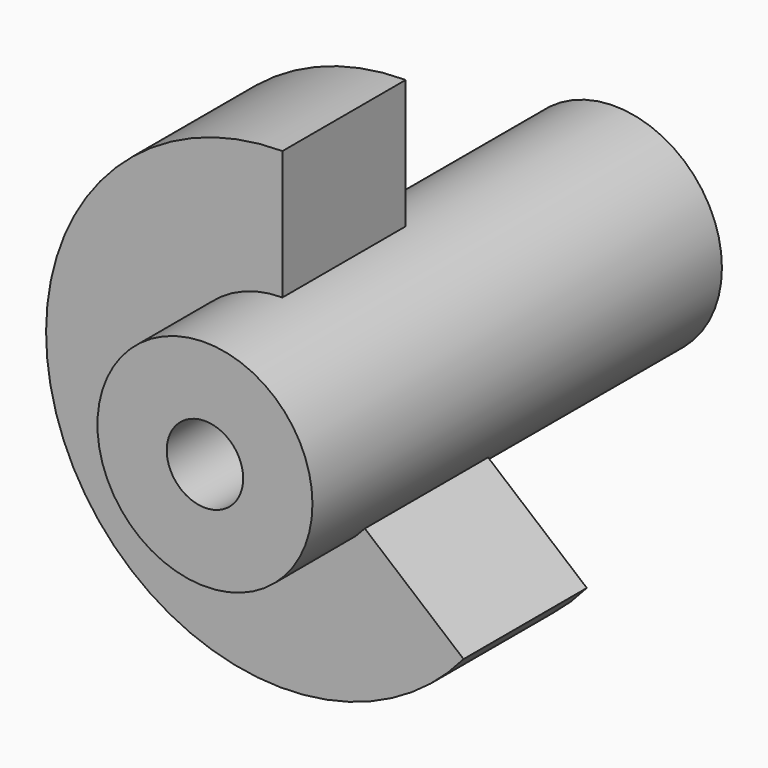
from build123d import *

# Parameters (mm, degrees)
F0_R     = 42.010101
F0_R_2   = 14.934941
F1_DEPTH = 200
F3_ANGLE = 230


with BuildPart() as f1:
    # F0 (on Front) → F1 (new body)
    with BuildSketch(Plane.XZ):
        Circle(F0_R)
        Circle(F0_R_2, mode=Mode.SUBTRACT)
    extrude(amount=F1_DEPTH)

    # F2 (on Right) → F3 (revolve)
    with BuildSketch(Plane.YZ):
        Polygon((-162.128657, 0), (-101.934254, 0), (-101.934254, 63.503705), (-101.934254, 92.374325), (-162.128657, 92.374325), align=None)
    revolve(axis=Axis((0, -132.031456, 0), (0, -1, 0)), revolution_arc=F3_ANGLE)


solid = f1.part
